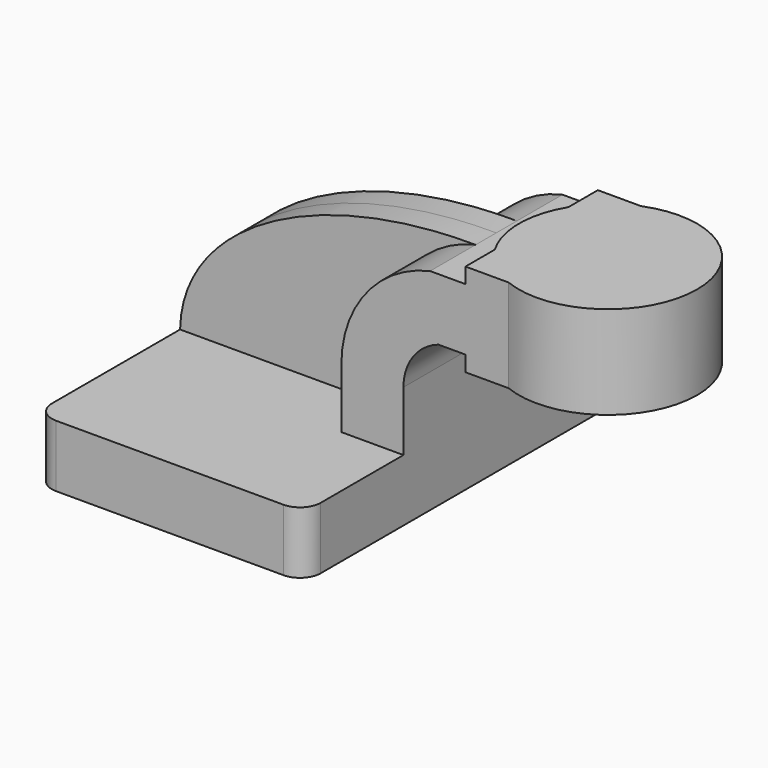
from build123d import *

# Parameters (mm, degrees)
F1_DEPTH = 63.5
F0_W     = 23.437294
F0_H     = 19.05
F0_H_2   = 4.7498
F0_H_3   = 4.7752
F2_DEPTH = 25.4
F3_DEPTH = 7.9375
F5_R     = 6.35


with BuildPart() as f1:
    # F0 (on Front) → F1 (new body, symmetric)
    with BuildSketch(Plane.XZ):
        Polygon((-41.275, -9.525), (41.275, -9.525), (41.275, 9.525), (22.225, 9.525), (-41.275, 9.525), align=None)
    extrude(amount=F1_DEPTH, both=True)

    # F0 (on Front) → F2 (join, symmetric)
    with BuildSketch(Plane.XZ):
        with BuildLine():
            Line((22.225, 9.525), (41.275, 9.525))
            Line((41.275, 9.525), (41.275, 27.854561))
            ThreePointArc((41.275, 27.854561), (44.235343, 37.086423), (52.012294, 42.8752))
            Line((52.012294, 42.8752), (60.325, 42.8752))
            Line((60.325, 42.8752), (60.325, 61.9252))
            Line((60.325, 61.9252), (49.472294, 61.9252))
            ThreePointArc((49.472294, 61.9252), (29.874558, 49.667536), (22.225, 27.854561))
            Line((22.225, 27.854561), (22.225, 9.525))
        make_face()
        with Locations((72.043647, 52.4002)):
            Rectangle(F0_W, F0_H)
        with Locations((72.043647, 64.3001)):
            Rectangle(F0_W, F0_H_2)
        with Locations((72.043647, 40.4876)):
            Rectangle(F0_W, F0_H_3)
    extrude(amount=F2_DEPTH, both=True)

    # F0 (on Front) → F3 (join, symmetric)
    with BuildSketch(Plane.XZ):
        with BuildLine():
            add(Edge.make_bspline(
                [(-41.275, 9.525), (-40.683046, 39.880011), (0, 62.237594), (49.472294, 61.9252)],
                knots=[0, 0, 0, 0, 104.789562, 104.789562, 104.789562, 104.789562], degree=3))
            Line((-41.275, 9.525), (22.225, 9.525))
            Line((22.225, 9.525), (22.225, 27.854561))
            ThreePointArc((22.225, 27.854561), (29.874558, 49.667536), (49.472294, 61.9252))
        make_face()
    extrude(amount=F3_DEPTH, both=True)

    # F0 (on Front) → F4 (revolve)
    with BuildSketch(Plane.XZ):
        Polygon((83.762294, 66.675), (83.762294, 61.9252), (83.762294, 42.8752), (83.762294, 38.1), (111.125, 38.1), (111.125, 66.675), align=None)
    revolve(axis=Axis((83.762294, 0, 52.4002), (0, 0, 1)))

    # F5
    f5_edges = [f1.edges().sort_by_distance(p)[0] for p in [
        (41.275, -63.5, 0),
        (41.275, 63.5, 0),
        (-41.275, 63.5, 0),
        (-41.275, -63.5, 0),
    ]]
    fillet(f5_edges, radius=F5_R)


solid = f1.part
